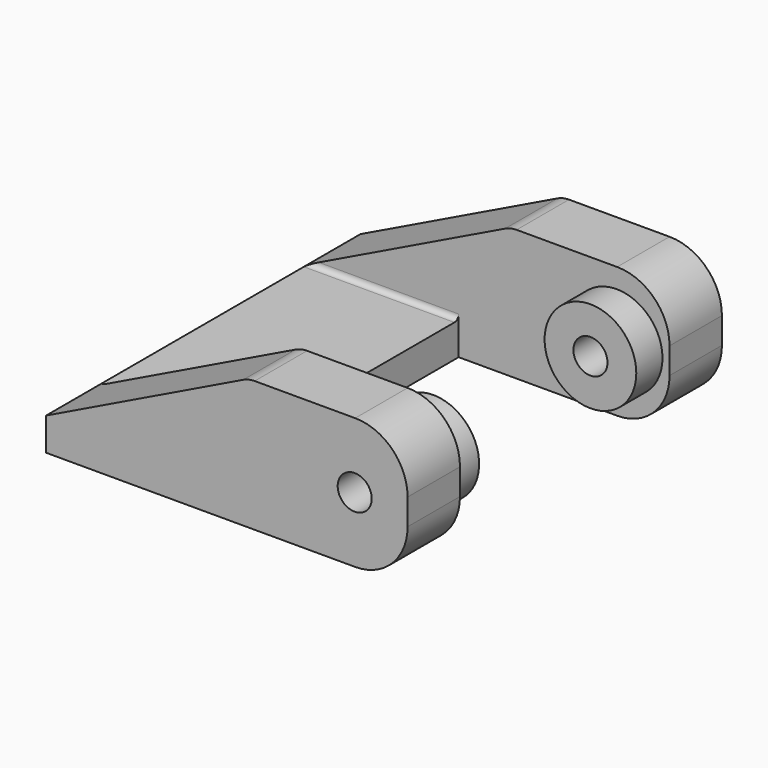
from build123d import *

# Parameters (mm, degrees)
F0_W      = 19.05
F0_H      = 38.1
F1_DEPTH  = 3.175
F2_R      = 1.651
F3_DEPTH  = 38.1
F4_W      = 10.7016550345
F4_H      = 25.4
F4_W_2    = 14.8274536716
F4_W_3    = 9.9113590219
F5_DEPTH  = 12.701
F6_R      = 5.08
F7_W      = 30.0603830089
F7_H      = 25.4
F8_DEPTH  = 9.525
F9_R      = 4.445
F9_R_2    = 1.651
F10_DEPTH = 3.175
F11_R     = 4.445
F11_R_2   = 1.651
F12_DEPTH = 3.175
F13_W     = 5.08
F13_H     = 25.4
F14_DEPTH = 3.175
F15_R     = 0.508


with BuildPart() as f1:
    # F0 (on Top) → F1 (new body)
    with BuildSketch(Plane.XY):
        Rectangle(F0_W, F0_H)
    extrude(amount=F1_DEPTH)

    # F2 (on face) → F3 (join, through all)
    with BuildSketch(Plane.XZ.offset(19.05)):
        with BuildLine():
            Line((25.5291087061, 0), (25.5291087061, 12.7))
            Line((25.5291087061, 12.7), (10.7016550345, 12.7))
            ThreePointArc((10.7016550345, 12.7), (10.1331167238, 12.6355533097), (9.5934291315, 12.4454836136))
            Line((9.5934291315, 12.4454836136), (-9.525, 3.175))
            Line((-9.525, 3.175), (9.525, 3.175))
            Line((9.525, 3.175), (9.525, 0))
            Line((9.525, 0), (14.3506696127, 0))
            Line((14.3506696127, 0), (25.5291087061, 0))
        make_face()
        with Locations((20.4010959715, 6.35)):
            Circle(F2_R, mode=Mode.SUBTRACT)
    extrude(amount=-F3_DEPTH)

    # F4 (on face) → F5 (cut, through all)
    with BuildSketch(Plane.XY.offset(12.7)):
        with Locations((5.3508275173, 0)):
            Rectangle(F4_W, F4_H)
        with Locations((18.1153818703, 0)):
            Rectangle(F4_W_2, F4_H)
        with Locations((30.4847882171, 0)):
            Rectangle(F4_W_3, F4_H)
    extrude(amount=-F5_DEPTH, mode=Mode.SUBTRACT)

    # F6
    f6_edges = [f1.edges().sort_by_distance(p)[0] for p in [
        (25.529109, -15.875, 12.7),
        (25.529109, -15.875, 0),
        (25.529109, 15.875, 0),
        (25.529109, 15.875, 12.7),
    ]]
    fillet(f6_edges, radius=F6_R)

    # F7 (on face) → F8 (cut, through all)
    with BuildSketch(Plane.XY.offset(12.7)):
        with Locations((-4.3285364699, 0)):
            Rectangle(F7_W, F7_H)
    extrude(amount=-F8_DEPTH, mode=Mode.SUBTRACT)

    # F9 (on face) → F10 (join)
    with BuildSketch(Plane(origin=(0, -12.7, 0), x_dir=(-1, 0, 0), z_dir=(0, 1, 0))):
        with Locations((-20.4010959715, 6.35)):
            Circle(F9_R)
        with Locations((-20.4588528723, 6.3269766979)):
            Circle(F9_R_2, mode=Mode.SUBTRACT)
    extrude(amount=F10_DEPTH)

    # F11 (on face) → F12 (join)
    with BuildSketch(Plane.XZ.offset(-12.7)):
        with Locations((20.4010959715, 6.35)):
            Circle(F11_R)
        with Locations((20.4010959715, 6.35)):
            Circle(F11_R_2, mode=Mode.SUBTRACT)
    extrude(amount=F12_DEPTH)

    # F13 (on face) → F14 (join, through all)
    with BuildSketch(Plane(origin=(0, 0, 0), x_dir=(1, 0, 0), z_dir=(0, 0, -1))):
        with Locations((2.54, 0)):
            Rectangle(F13_W, F13_H)
    extrude(amount=-F14_DEPTH)

    # F15
    f15_edges = [f1.edges().sort_by_distance(p)[0] for p in [
        (-2.2225, -12.7, 3.175),
        (-2.2225, 12.7, 3.175),
    ]]
    fillet(f15_edges, radius=F15_R)


solid = f1.part
